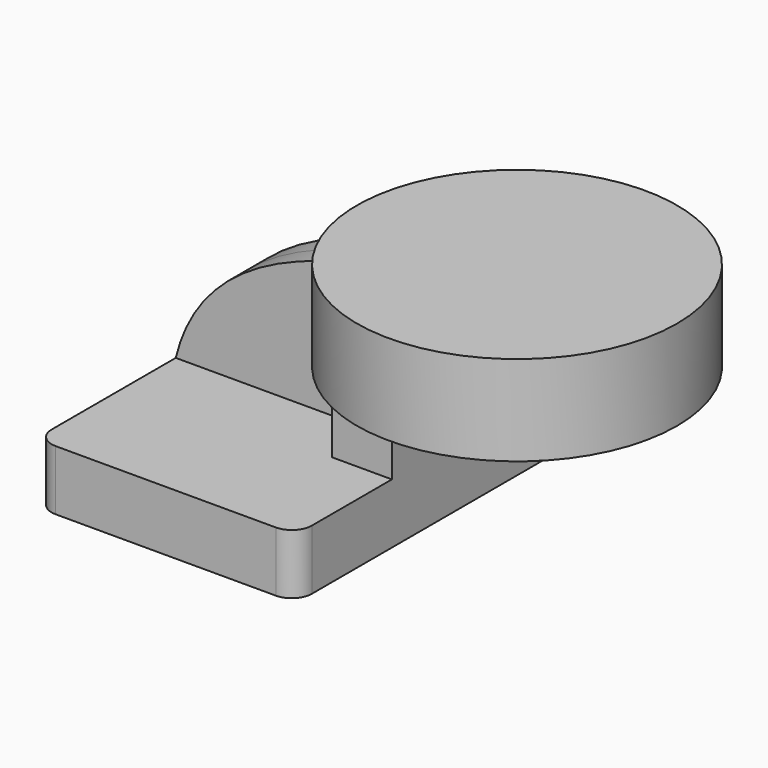
from build123d import *

# Parameters (mm, degrees)
F1_DEPTH = 63.5
F2_DEPTH = 25.4
F3_DEPTH = 7.9375
F5_R     = 6.35


with BuildPart() as f1:
    # F0 (on Front) → F1 (new body, symmetric)
    with BuildSketch(Plane.XZ):
        Polygon((22.225, 9.525), (-41.275, 9.525), (-41.275, -9.525), (41.275, -9.525), (41.275, 9.525), align=None)
    extrude(amount=F1_DEPTH, both=True)

    # F0 (on Front) → F2 (join, symmetric)
    with BuildSketch(Plane.XZ):
        with BuildLine():
            Line((22.225, 24.107097), (22.225, 9.525))
            Line((22.225, 9.525), (41.275, 9.525))
            Line((41.275, 9.525), (41.275, 24.107097))
            ThreePointArc((41.275, 24.107097), (45.92468, 35.332417), (57.15, 39.982097))
            Line((57.15, 39.982097), (60.657849, 39.982097))
            Line((60.657849, 39.982097), (60.657849, 59.032097))
            Line((60.657849, 59.032097), (57.15, 59.032097))
            add(Edge.make_bspline(
                [(54.762262, 58.950379), (55.554692, 58.980457), (56.350621, 59.007687), (57.15, 59.032097)],
                knots=[108.497511, 108.497511, 108.497511, 108.497511, 110.174558, 110.174558, 110.174558, 110.174558], degree=3))
            ThreePointArc((54.762262, 58.950379), (31.624059, 47.943664), (22.225, 24.107097))
        make_face()
    extrude(amount=F2_DEPTH, both=True)

    # F0 (on Front) → F3 (join, symmetric)
    with BuildSketch(Plane.XZ):
        with BuildLine():
            add(Edge.make_bspline(
                [(-41.275, 9.525), (-33.121447, 43.135956), (3.4956, 57.004461), (54.762262, 58.950379)],
                knots=[0, 0, 0, 0, 108.497511, 108.497511, 108.497511, 108.497511], degree=3))
            Line((-41.275, 9.525), (22.225, 9.525))
            Line((22.225, 9.525), (22.225, 24.107097))
            ThreePointArc((22.225, 24.107097), (31.624059, 47.943664), (54.762262, 58.950379))
        make_face()
    extrude(amount=F3_DEPTH, both=True)

    # F0 (on Front) → F4 (revolve)
    with BuildSketch(Plane.XZ):
        Polygon((60.657849, 65.545457), (60.657849, 59.032097), (101.433977, 59.032097), (101.6, 39.982097), (60.657849, 39.982097), (60.657849, 36.970457), (111.457849, 36.970457), (111.457849, 65.545457), align=None)
    revolve(axis=Axis((60.657849, 0, 51.257957), (0, 0, 1)))

    # F5
    f5_edges = [f1.edges().sort_by_distance(p)[0] for p in [
        (41.275, -63.5, 0),
        (-41.275, -63.5, 0),
        (41.275, 63.5, 0),
        (-41.275, 63.5, 0),
    ]]
    fillet(f5_edges, radius=F5_R)


solid = f1.part
